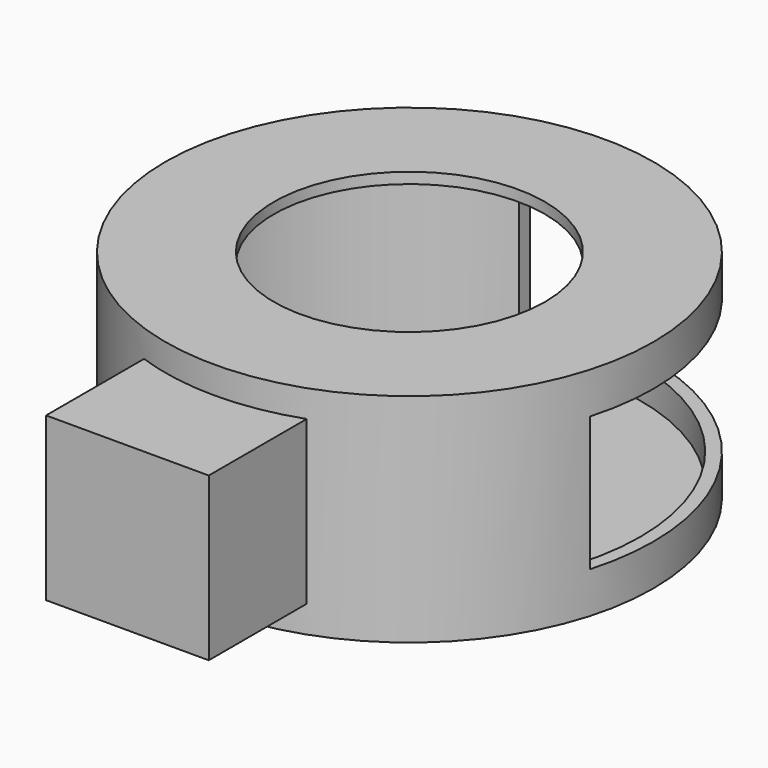
from build123d import *

# Parameters (mm, degrees)
F0_R          = 22.5
F1_DEPTH      = 10
F1_DEPTH_BACK = 10
F2_W          = 15
F2_H          = 20
F3_DEPTH      = 7.5
F3_DEPTH_BACK = 7.5
F4_R          = 21.3
F5_DEPTH      = 9
F5_DEPTH_BACK = 9
F6_R          = 12.5
F7_DEPTH      = 3
F8_W          = 12.4
F8_H          = 25.2830533619
F8_W_2        = 28.802598262
F8_H_2        = 12.4
F9_DEPTH      = 6.2
F9_DEPTH_BACK = 6.2


with BuildPart() as f1:
    # F0 (on Top) → F1 (new body, two sides)
    with BuildSketch(Plane.XY) as f1_sk:
        Circle(F0_R)
    extrude(amount=F1_DEPTH)
    extrude(f1_sk.sketch, amount=-F1_DEPTH_BACK)

    # F2 (on Top) → F3 (join, two sides)
    with BuildSketch(Plane.XY) as f3_sk:
        with Locations((0, -22.5)):
            Rectangle(F2_W, F2_H)
    extrude(amount=F3_DEPTH)
    extrude(f3_sk.sketch, amount=-F3_DEPTH_BACK)

    # F4 (on Top) → F5 (cut, two sides)
    with BuildSketch(Plane.XY) as f5_sk:
        Circle(F4_R)
    extrude(amount=-F5_DEPTH, mode=Mode.SUBTRACT)
    extrude(f5_sk.sketch, amount=F5_DEPTH_BACK, mode=Mode.SUBTRACT)

    # F6 (on face) → F7 (cut)
    with BuildSketch(Plane.XY.offset(10)):
        Circle(F6_R)
    extrude(amount=-F7_DEPTH, mode=Mode.SUBTRACT)

    # F8 (on Top) → F9 (cut, two sides)
    with BuildSketch(Plane.XY) as f9_sk:
        with Locations((0, 18.841526681)):
            Rectangle(F8_W, F8_H)
        Polygon((6.2, 31.4830533619), (6.2, 6.2), (35.002598262, 6.2), align=None)
        with Locations((20.601299131, 0)):
            Rectangle(F8_W_2, F8_H_2)
    extrude(amount=-F9_DEPTH, mode=Mode.SUBTRACT)
    extrude(f9_sk.sketch, amount=F9_DEPTH_BACK, mode=Mode.SUBTRACT)


solid = f1.part
